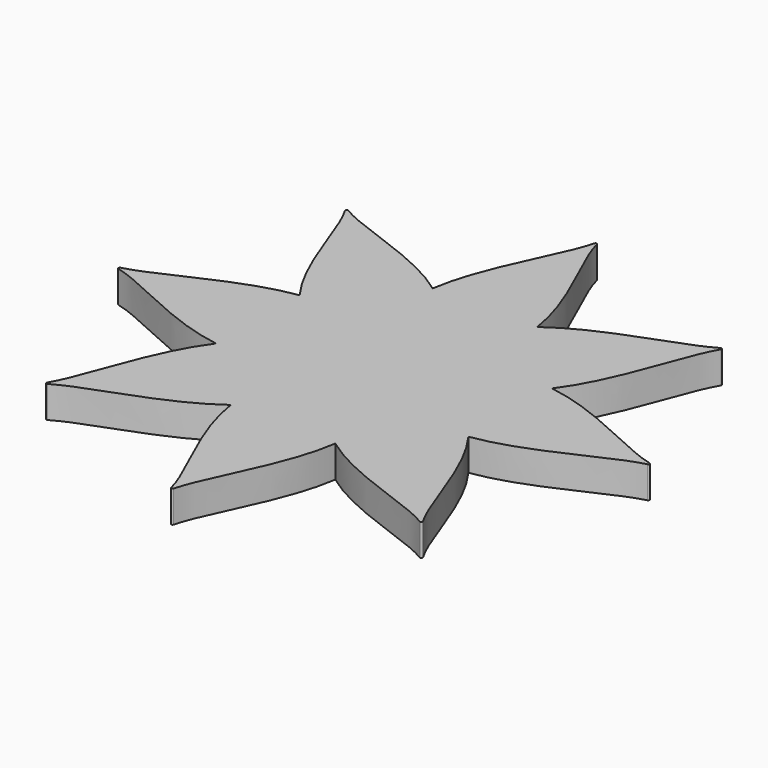
from build123d import *

# Parameters (mm, degrees)
F1_DEPTH = 10
F2_COUNT = 8
F3_R     = 0.4


with BuildPart() as f1:
    # F0 (on Top) → F1 (new body)
    with BuildSketch(Plane.XY):
        with BuildLine():
            add(Edge.make_bspline(
                [(-14.9177111461, 20.0614529425), (-23.5650084882, 44.8479673469), (-2.5884105388, 70.4783619432), (0, 85)],
                knots=[18.3724715396, 18.3724715396, 18.3724715396, 18.3724715396, 85, 85, 85, 85], degree=3))
            ThreePointArc((-14.9177111461, 20.0614529425), (-7.8569611313, 23.7332711985), (0, 25))
            Line((0, 25), (0, 85))
        make_face()
        with BuildLine():
            ThreePointArc((0, 25), (7.8569611313, 23.7332711985), (14.9177111461, 20.0614529425))
            add(Edge.make_bspline(
                [(14.9177111461, 20.0614529425), (23.5650084882, 44.8479673469), (2.5884105388, 70.4783619432), (0, 85)],
                knots=[18.3724715396, 18.3724715396, 18.3724715396, 18.3724715396, 85, 85, 85, 85], degree=3))
            Line((0, 85), (0, 25))
        make_face()
        with BuildLine():
            add(Edge.make_bspline(
                [(0, 0), (7.8962181087, 6.4559084388), (12.5332279154, 13.2265974258), (14.9177111461, 20.0614529425)],
                knots=[0, 0, 0, 0, 18.3724715396, 18.3724715396, 18.3724715396, 18.3724715396], degree=3))
            ThreePointArc((14.9177111461, 20.0614529425), (7.8569611313, 23.7332711985), (0, 25))
            ThreePointArc((0, 25), (-7.8569611313, 23.7332711985), (-14.9177111461, 20.0614529425))
            add(Edge.make_bspline(
                [(0, 0), (-7.8962181087, 6.4559084388), (-12.5332279154, 13.2265974258), (-14.9177111461, 20.0614529425)],
                knots=[0, 0, 0, 0, 18.3724715396, 18.3724715396, 18.3724715396, 18.3724715396], degree=3))
        make_face()
    extrude(amount=F1_DEPTH)

    # F2: F1 ×8 about axis
    f2_axis = Axis((0, 0, 5), (0, 0, -1))


with BuildPart() as f1_1:
    add(f1.part)
    for i in range(1, F2_COUNT):
        add(f1.part.rotate(f2_axis, i * 360 / F2_COUNT))

    # F3
    f3_edges = [f1_1.edges().sort_by_distance(p)[0] for p in [
        (60.104076, 60.104076, 5),
        (85, 0, 5),
        (60.104076, -60.104076, 5),
        (0, -85, 5),
        (0, 85, 5),
        (-60.104076, 60.104076, 5),
        (-85, 0, 5),
        (-60.104076, -60.104076, 5),
    ]]
    fillet(f3_edges, radius=F3_R)


solid = f1_1.part
